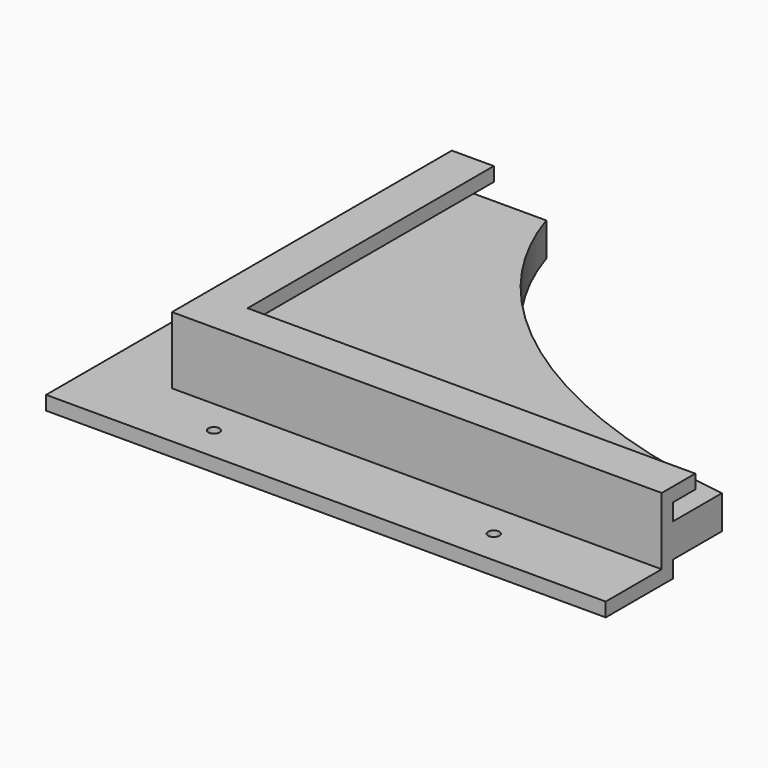
from build123d import *

# Parameters (mm, degrees)
F1_DEPTH  = 12
F2_W      = 200
F2_H      = 24
F3_DEPTH  = 5
F4_W      = 155
F4_H      = 24
F5_DEPTH  = 5
F6_R      = 2
F7_DEPTH  = 5
F9_DEPTH  = 5
F10_W     = 200
F10_H     = 30
F10_W_2   = 30
F10_H_2   = 150
F11_DEPTH = 25


with BuildPart() as f1:
    # F0 (on Top) → F1 (new body)
    with BuildSketch(Plane.XY):
        with BuildLine():
            add(Edge.make_bspline(
                [(-176, 0), (-176, -130), (0, -130)],
                knots=[3.1415926536, 3.1415926536, 3.1415926536, 4.7123889804, 4.7123889804, 4.7123889804], degree=2, weights=[1, 0.7071067812, 1]))
            Line((-176, 0), (-176, -130))
            Line((-176, -130), (0, -130))
        make_face()
        Polygon((-176, -130), (-176, 0), (-200, 0), (-200, -150), (0, -150), (0, -130), align=None)
    extrude(amount=F1_DEPTH)

    # F2 (on face) → F3 (join)
    with BuildSketch(Plane.XZ.offset(150)):
        with Locations((-100, 6)):
            Rectangle(F2_W, F2_H)
    extrude(amount=F3_DEPTH)

    # F4 (on face) → F5 (join)
    with BuildSketch(Plane(origin=(-200, 0, 0), x_dir=(0, -1, 0), z_dir=(-1, 0, 0))):
        with Locations((77.5, 6)):
            Rectangle(F4_W, F4_H)
    extrude(amount=F5_DEPTH)

    # F6 (on face) → F7 (join)
    with BuildSketch(Plane(origin=(0, 0, -6), x_dir=(1, 0, 0), z_dir=(0, 0, -1))):
        Polygon((0, 155), (0, 180), (-230, 180), (-230, 0), (-205, 0), (-205, 155), align=None)
        with Locations((-217.5, 70)):
            Circle(F6_R, mode=Mode.SUBTRACT)
        with Locations((-217.5, 130)):
            Circle(F6_R, mode=Mode.SUBTRACT)
        with Locations((-180, 167.5)):
            Circle(F6_R, mode=Mode.SUBTRACT)
        with Locations((-80, 167.5)):
            Circle(F6_R, mode=Mode.SUBTRACT)
    extrude(amount=-F7_DEPTH)

    # F8 (on face) → F9 (join)
    with BuildSketch(Plane.XY.offset(18)):
        Polygon((-190, 0), (-205, 0), (-205, -155), (0, -155), (0, -140), (-190, -140), align=None)
    extrude(amount=F9_DEPTH)

    # F10 (on Top) → F11 (cut, symmetric)
    with BuildSketch(Plane.XY):
        with Locations((-130, -15)):
            Rectangle(F10_W, F10_H)
        with Locations((-15, -15)):
            Rectangle(F10_W_2, F10_H)
        with Locations((-15, -105)):
            Rectangle(F10_W_2, F10_H_2)
    extrude(amount=F11_DEPTH, both=True, mode=Mode.SUBTRACT)


solid = f1.part
